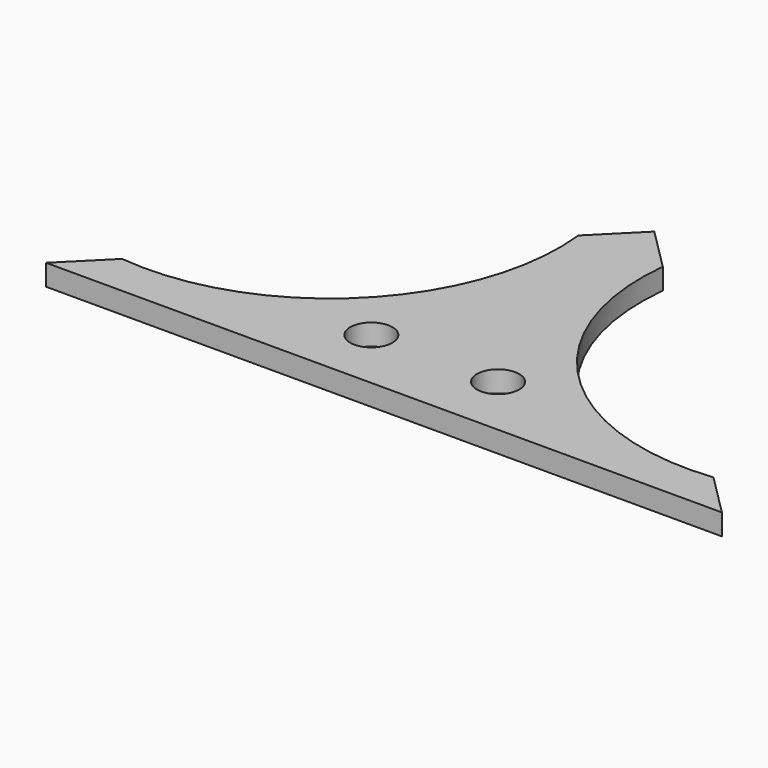
from build123d import *

# Parameters (mm, degrees)
F0_R     = 2.5
F1_DEPTH = 2.5


with BuildPart() as f1:
    # F0 (on Top) → F1 (new body)
    with BuildSketch(Plane.XY):
        with BuildLine():
            Line((0, -20), (0, 20))
            Line((0, 20), (-5, 15))
            ThreePointArc((-5, 15), (-12.803301, -7.196699), (-35, -15))
            Line((-35, -15), (-40, -20))
            Line((-40, -20), (0, -20))
        make_face()
        with Locations((-7.5, -12.5)):
            Circle(F0_R, mode=Mode.SUBTRACT)
    extrude(amount=F1_DEPTH)

    # F2: F1 across face


with BuildPart() as f1_1:
    add(f1.part)
    add(f1.part.mirror(Plane(origin=(0, 0, 1.25), x_dir=(0, 1, 0), z_dir=(1, 0, 0))))


solid = f1_1.part
